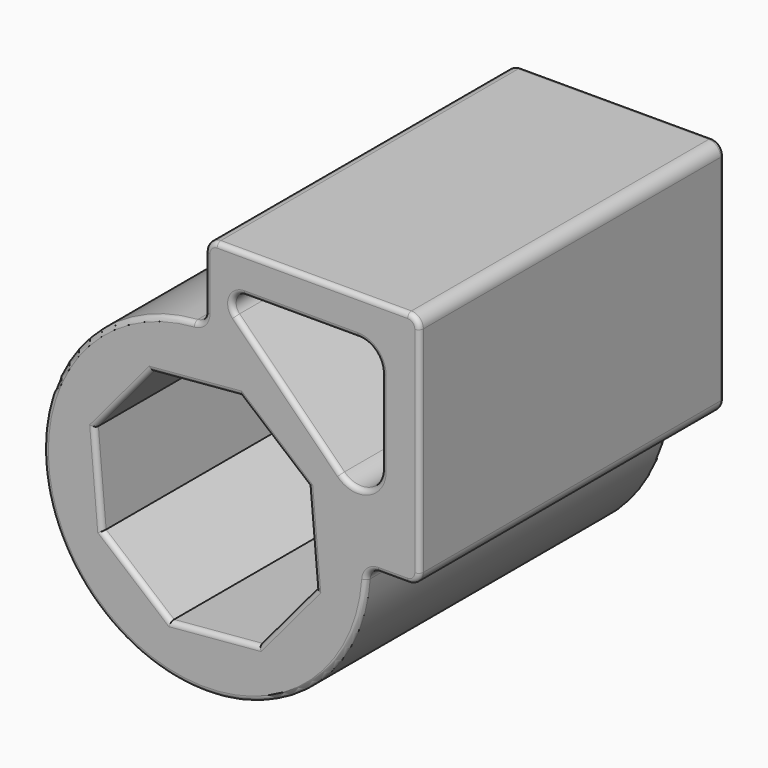
from build123d import *

# Parameters (mm, degrees)
F1_DEPTH = 50.8
F2_R     = 1.27


with BuildPart() as f1:
    # F0 (on Front) → F1 (new body, symmetric)
    with BuildSketch(Plane.XZ):
        with BuildLine():
            Line((0, 60.325), (0, 46.1659506563))
            ThreePointArc((0, 46.1659506563), (-0.854194922, 43.9992737561), (-2.9571582928, 42.998432702))
            ThreePointArc((-2.9571582928, 42.998432702), (-30.4763022691, -30.4763022691), (42.998432702, -2.9571582928))
            ThreePointArc((42.998432702, -2.9571582928), (43.9992737561, -0.854194922), (46.1659506563, 0))
            Line((46.1659506563, 0), (53.975, 0))
            ThreePointArc((53.975, 0), (56.2200640303, 0.9299359697), (57.15, 3.175))
            Line((57.15, 3.175), (57.15, 60.325))
            ThreePointArc((57.15, 60.325), (56.2200640303, 62.5700640303), (53.975, 63.5))
            Line((53.975, 63.5), (3.175, 63.5))
            ThreePointArc((3.175, 63.5), (0.9299359697, 62.5700640303), (0, 60.325))
        make_face()
        Polygon((-14.28158776, 27.4346748317), (9.3006370619, 29.4978521643), (27.4346748317, 14.28158776), (29.4978521643, -9.3006370619), (14.28158776, -27.4346748317), (-9.3006370619, -29.4978521643), (-27.4346748317, -14.28158776), (-29.4978521643, 9.3006370619), align=None, mode=Mode.SUBTRACT)
        with BuildLine():
            ThreePointArc((8.1647364156, 47.9199359697), (7.4764829301, 51.3800198978), (10.4098004459, 53.34))
            Line((10.4098004459, 53.34), (40.64, 53.34))
            ThreePointArc((40.64, 53.34), (45.1301280605, 51.4801280605), (46.99, 46.99))
            Line((46.99, 46.99), (46.99, 24.4249285064))
            ThreePointArc((46.99, 24.4249285064), (43.0700397955, 18.5582934749), (36.1498719395, 19.9348004459))
            Line((36.1498719395, 19.9348004459), (8.1647364156, 47.9199359697))
        make_face(mode=Mode.SUBTRACT)
    extrude(amount=F1_DEPTH, both=True)

    # F2
    f2_edges = [f1.edges().sort_by_distance(p)[0] for p in [
        (56.220064, -50.8, 62.570064),
        (28.575, -50.8, 63.5),
        (0.929936, -50.8, 62.570064),
        (0, -50.8, 53.245475),
        (-0.854195, -50.8, 43.999274),
        (-30.476302, -50.8, -30.476302),
        (43.999274, -50.8, -0.854195),
        (50.070475, -50.8, 0),
        (56.220064, -50.8, 0.929936),
        (57.15, -50.8, 31.75),
        (-2.490475, -50.8, 28.466263),
        (18.367656, -50.8, 21.88972),
        (28.466263, -50.8, 2.490475),
        (21.88972, -50.8, -18.367656),
        (2.490475, -50.8, -28.466263),
        (-18.367656, -50.8, -21.88972),
        (-28.466263, -50.8, -2.490475),
        (-21.88972, -50.8, 18.367656),
        (7.476483, -50.8, 51.38002),
        (25.5249, -50.8, 53.34),
        (45.130128, -50.8, 51.480128),
        (46.99, -50.8, 35.707464),
        (43.07004, -50.8, 18.558293),
        (22.157304, -50.8, 33.927368),
        (56.220064, 50.8, 62.570064),
        (28.575, 50.8, 63.5),
        (0.929936, 50.8, 62.570064),
        (0, 50.8, 53.245475),
        (-0.854195, 50.8, 43.999274),
        (-30.476302, 50.8, -30.476302),
        (43.999274, 50.8, -0.854195),
        (50.070475, 50.8, 0),
        (56.220064, 50.8, 0.929936),
        (57.15, 50.8, 31.75),
        (-2.490475, 50.8, 28.466263),
        (18.367656, 50.8, 21.88972),
        (28.466263, 50.8, 2.490475),
        (21.88972, 50.8, -18.367656),
        (2.490475, 50.8, -28.466263),
        (-18.367656, 50.8, -21.88972),
        (-28.466263, 50.8, -2.490475),
        (-21.88972, 50.8, 18.367656),
        (7.476483, 50.8, 51.38002),
        (25.5249, 50.8, 53.34),
        (45.130128, 50.8, 51.480128),
        (46.99, 50.8, 35.707464),
        (43.07004, 50.8, 18.558293),
        (22.157304, 50.8, 33.927368),
    ]]
    fillet(f2_edges, radius=F2_R)


solid = f1.part
